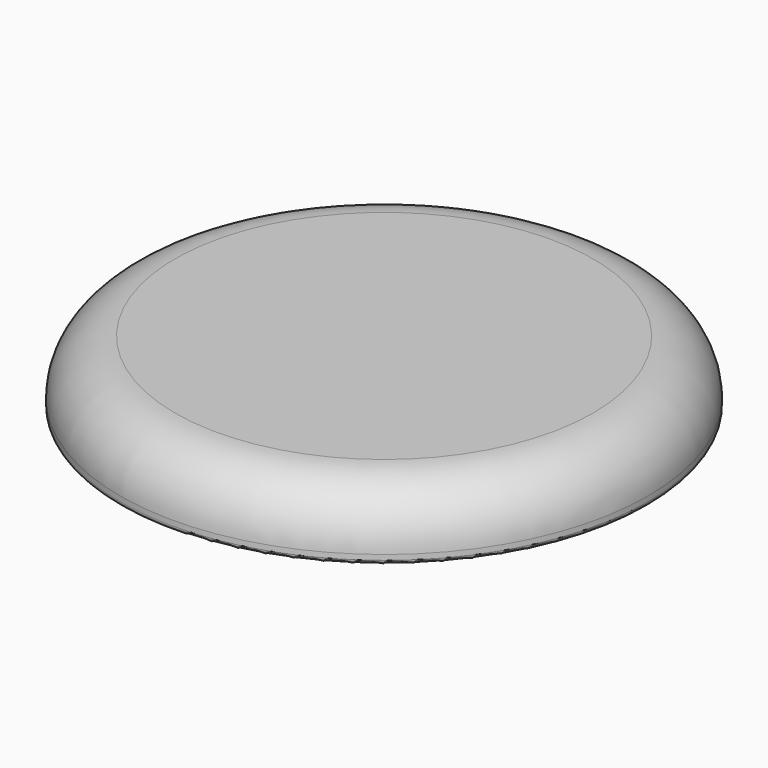
from build123d import *


with BuildPart() as f1:
    # F0 (on Front) → F1 (revolve)
    with BuildSketch(Plane.XZ):
        with BuildLine():
            Line((0, 15), (0, 0))
            Line((0, 0), (75, 0))
            ThreePointArc((75, 0), (84.742101, -3.594235), (89.815481, -12.654471))
            ThreePointArc((89.815481, -12.654471), (90.491932, -13.862502), (91.790879, -14.341733))
            Line((91.790879, -14.341733), (118, -14.341733))
            ThreePointArc((118, -14.341733), (119.414214, -13.755947), (120, -12.341733))
            Line((120, -12.341733), (120, -10))
            ThreePointArc((120, -10), (112.67767, 7.67767), (95, 15))
            Line((95, 15), (0, 15))
        make_face()
    revolve(axis=Axis((0, 0, 7.5), (0, 0, 1)))


solid = f1.part
